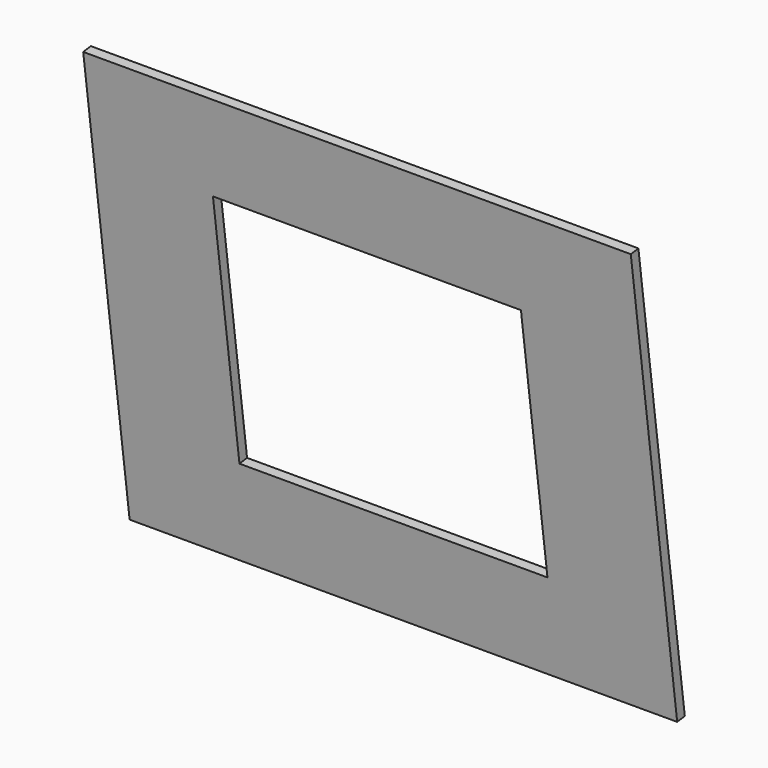
from build123d import *

# Parameters (mm, degrees)
SKETCH_W     = 342.9
SKETCH_H     = 279.4
PAD_DEPTH    = 10.668
SKETCH003_W  = 609.6
SKETCH003_H  = 488.95
PAD003_DEPTH = 10.668


with BuildPart() as pad:
    # Sketch → Pad (new body)
    with BuildSketch(Plane(origin=(144.018, 482.3887756195, 1169.5572667002), x_dir=(1, 0, 0), z_dir=(0, -0.9912409134, -0.1320660881))):
        with Locations((171.45, 139.7)):
            Rectangle(SKETCH_W, SKETCH_H)
    extrude(amount=-PAD_DEPTH)


with BuildPart() as screen:
    # Sketch003 → Pad003 (new body)
    with BuildSketch(Plane(origin=(10.668, 496.226, 1065.7), x_dir=(1, 0, 0), z_dir=(0, -0.9912409134, -0.1320660881))):
        with Locations((304.8, 244.475)):
            Rectangle(SKETCH003_W, SKETCH003_H)
    extrude(amount=-PAD003_DEPTH)

    # Cut002: cut Pad
    add(pad.part, mode=Mode.SUBTRACT)


with BuildPart() as screen_1:
    # Cut002 placement: moved
    add(screen.part.moved(Location((0, -23.0429113355, -3.0713566138))))


solid = screen_1.part
